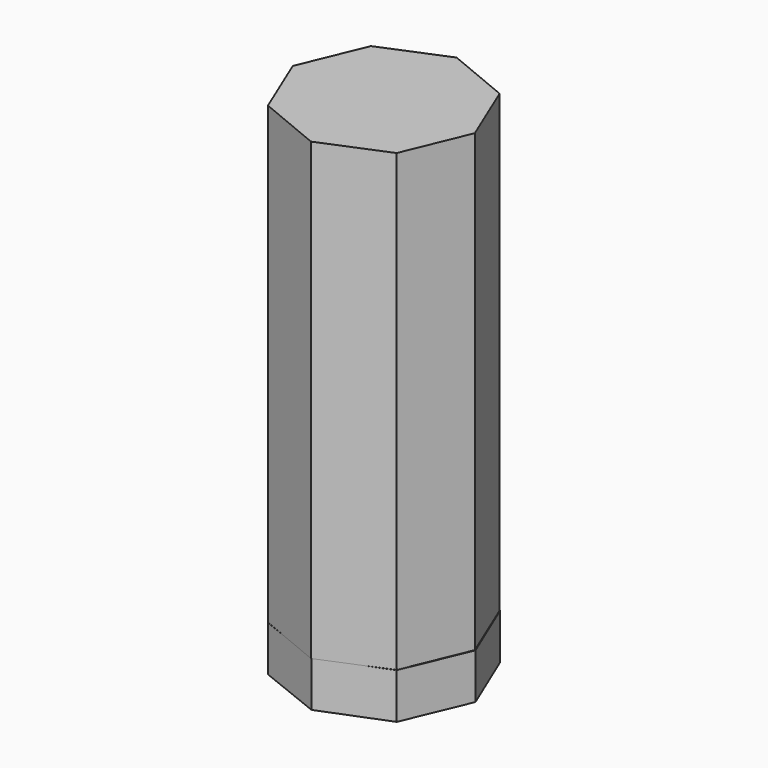
from build123d import *

# Parameters (mm, degrees)
F1_DEPTH = 254
F3_DEPTH = 25.4


with BuildPart() as f1:
    # F0 (on Top) → F1 (new body)
    with BuildSketch(Plane.XY):
        Polygon((35.921024, -35.921024), (50.8, 0), (35.921024, 35.921024), (0, 50.8), (-35.921024, 35.921024), (-50.8, 0), (-35.921024, -35.921024), (0, -50.8), align=None)
    extrude(amount=F1_DEPTH)

    # F2 (on Top) → F3 (join)
    with BuildSketch(Plane.XY):
        Polygon((-50.949764, 0), (-35.853539, -36.105141), (0, 0), align=None)
        Polygon((0, 0), (-35.853539, -36.105141), (0, -50.446555), align=None)
        Polygon((36.105141, -36.105141), (0, 0), (0, -50.446555), align=None)
        Polygon((-50.949764, 0), (0, 0), (-35.853539, 36.105141), align=None)
        Polygon((-35.853539, 36.105141), (0, 0), (0, 50.698161), align=None)
        Polygon((0, 50.698161), (0, 0), (36.105141, 36.105141), align=None)
        Polygon((51.201366, 0), (0, 0), (36.105141, -36.105141), align=None)
        Polygon((36.105141, 36.105141), (0, 0), (51.201366, 0), align=None)
    extrude(amount=-F3_DEPTH)


solid = f1.part
